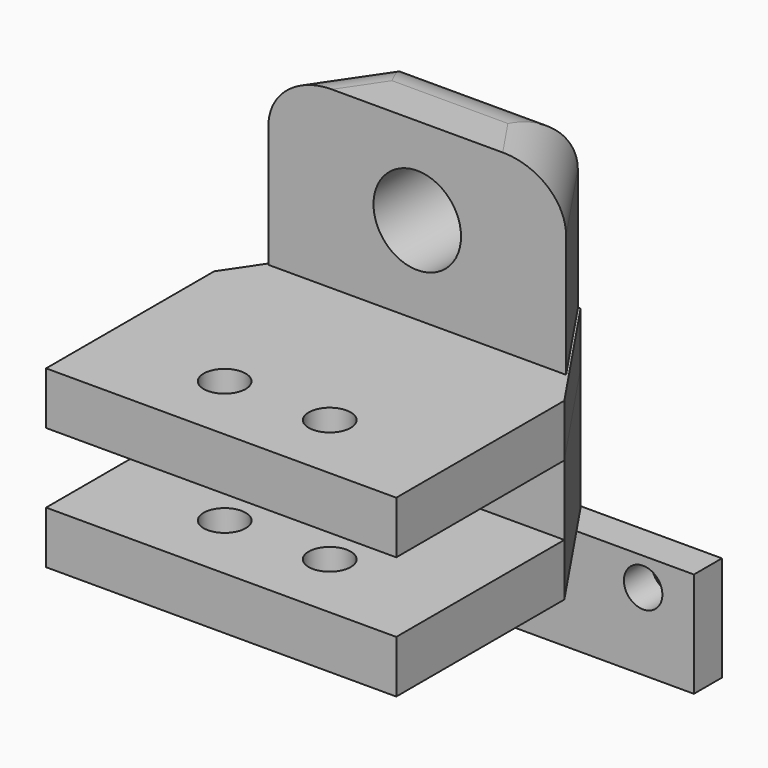
from build123d import *

# Parameters (mm, degrees)
SKETCH_R        = 1.2
PAD_DEPTH       = 3
PAD001_DEPTH    = 10
FILLET_R        = 3
SKETCH002_R     = 2.5
POCKET_DEPTH    = 6
PAD002_DEPTH    = 7
SKETCH004_W     = 20
SKETCH004_H     = 4
POCKET001_DEPTH = 12
SKETCH006_R     = 1.2
POCKET002_DEPTH = 5
PAD003_DEPTH    = 6
SKETCH008_R     = 1.1
POCKET003_DEPTH = 5


with BuildPart() as part:
    # Sketch → Pad (new body)
    with BuildSketch(Plane.XY):
        Polygon((0, 12), (0, 0), (-20, 0), (-20, 12), (-15, 19.412805), (-5, 19.412805), align=None)
        with Locations((-13, 4)):
            Circle(SKETCH_R, mode=Mode.SUBTRACT)
        with Locations((-7, 4)):
            Circle(SKETCH_R, mode=Mode.SUBTRACT)
    extrude(amount=PAD_DEPTH)

    # Sketch001 (on Face10 of Pad) → Pad001 (join)
    with BuildSketch(Plane.XY.offset(3)):
        Polygon((-14.90374, 19.331674), (-5.09626, 19.331674), (-1.5, 14), (-18.5, 14), align=None)
    extrude(amount=PAD001_DEPTH)

    # Fillet
    fillet_edges = [part.edges().sort_by_distance(p)[0] for p in [
        (-3.29813, 16.665837, 13),
        (-10, 19.331674, 13),
        (-16.70187, 16.665837, 13),
    ]]
    fillet(fillet_edges, radius=FILLET_R)

    # Sketch002 (on Face12 of Pad001) → Pocket (cut)
    with BuildSketch(Plane.XZ.offset(-14)):
        with Locations((-10, 8)):
            Circle(SKETCH002_R)
    extrude(amount=-POCKET_DEPTH, mode=Mode.SUBTRACT)

    # Sketch003 (on Face19 of Pocket) → Pad002 (join)
    with BuildSketch(Plane(origin=(0, 0, 0), x_dir=(1, 0, 0), z_dir=(0, 0, -1))):
        Polygon((0, 0), (-20, 0), (-20, -12), (-15.004024, -19.406839), (-4.995976, -19.406839), (0, -12), align=None)
    extrude(amount=PAD002_DEPTH)

    # Sketch004 (on Face22 of Pad002) → Pocket001 (cut)
    with BuildSketch(Plane.XZ):
        with Locations((-10, -2)):
            Rectangle(SKETCH004_W, SKETCH004_H)
    extrude(amount=-POCKET001_DEPTH, mode=Mode.SUBTRACT)

    # Sketch006 (on Face26 of Pocket001) → Pocket002 (cut)
    with BuildSketch(Plane(origin=(0, 0, -7), x_dir=(1, 0, 0), z_dir=(0, 0, -1))):
        with Locations((-13, -4)):
            Circle(SKETCH006_R)
        with Locations((-7, -4)):
            Circle(SKETCH006_R)
    extrude(amount=-POCKET002_DEPTH, mode=Mode.SUBTRACT)

    # Sketch007 (on Face26 of Pocket002) → Pad003 (join)
    with BuildSketch(Plane(origin=(0, 0, -7), x_dir=(1, 0, 0), z_dir=(0, 0, -1))):
        Polygon((-10, -19.5), (-23, -19.5), (-23, -17.5), (-10, -17.5), (3, -17.5), (3, -19.5), align=None)
    extrude(amount=PAD003_DEPTH)

    # Sketch008 (on Face38 of Pad003) → Pocket003 (cut)
    with BuildSketch(Plane(origin=(0, 19.5, 0), x_dir=(-1, 0, 0), z_dir=(0, 1, 0))):
        with Locations((20.1, -8.6)):
            Circle(SKETCH008_R)
        with Locations((-0.1, -8.6)):
            Circle(SKETCH008_R)
    extrude(amount=-POCKET003_DEPTH, mode=Mode.SUBTRACT)


solid = part.part
